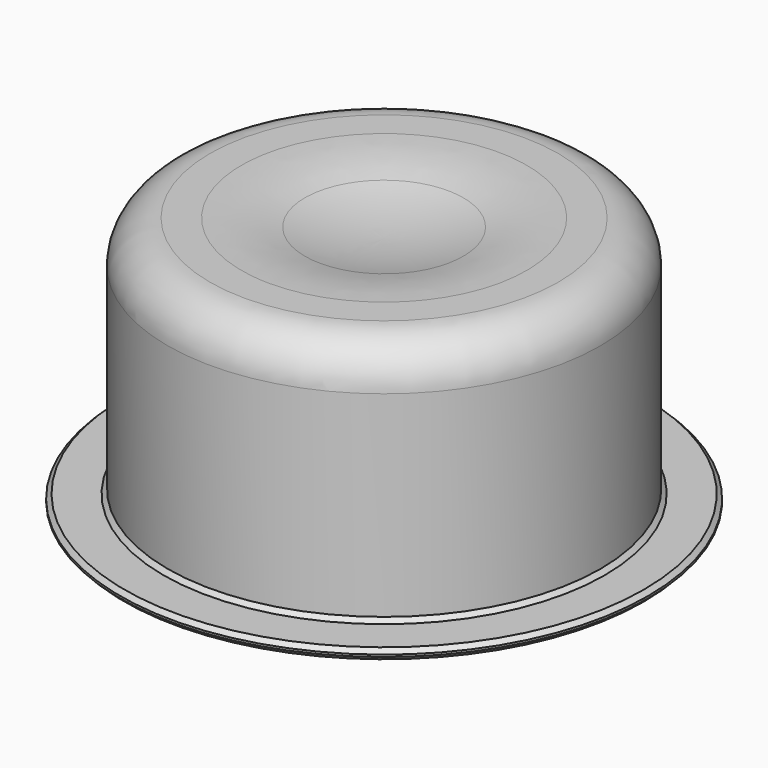
from build123d import *

# Parameters (mm, degrees)
SKETCH171_R     = 10.25
PAD070_DEPTH    = 12
FILLET079_R     = 2
FILLET080_R     = 12
SKETCH188_R     = 12.5
PAD078_DEPTH    = 0.5
CHAMFER035_SIZE = 0.2


with BuildPart() as part:
    # Sketch171 → Pad070 (new body)
    with BuildSketch(Plane.XY):
        Circle(SKETCH171_R)
    extrude(amount=PAD070_DEPTH)

    # Fillet079
    fillet079_edges = [part.edges().sort_by_distance(p)[0] for p in [
        (-10.25, 0, 12),
    ]]
    fillet(fillet079_edges, radius=FILLET079_R)

    # Sketch172 → Groove (revolve, cut)
    with BuildSketch(Plane.YZ):
        with BuildLine():
            Line((0, 12), (0, 11.142136))
            ThreePointArc((-5, 12), (-2.53653, 11.358157), (0, 11.142136))
            Line((0, 12), (-5, 12))
        make_face()
    revolve(axis=Axis((0, 0, 0), (0, 0, 1)), mode=Mode.SUBTRACT)

    # Fillet080
    fillet080_edges = [part.edges().sort_by_distance(p)[0] for p in [
        (0, 5, 12),
    ]]
    fillet(fillet080_edges, radius=FILLET080_R)

    # Sketch188 (on Face6 of Fillet080) → Pad078 (join)
    with BuildSketch(Plane(origin=(0, 0, 0), x_dir=(1, 0, 0), z_dir=(0, 0, -1))):
        Circle(SKETCH188_R)
    extrude(amount=-PAD078_DEPTH)

    # Chamfer035
    chamfer035_edges = [part.edges().sort_by_distance(p)[0] for p in [
        (-12.5, 0, 0.5),
        (-12.5, 0, 0),
        (-10.25, 0, 0.5),
    ]]
    chamfer(chamfer035_edges, length=CHAMFER035_SIZE)


with BuildPart() as part_1:
    # Body045 placement: moved
    add(part.part.moved(Location((0, -9, 13))))


solid = part_1.part
